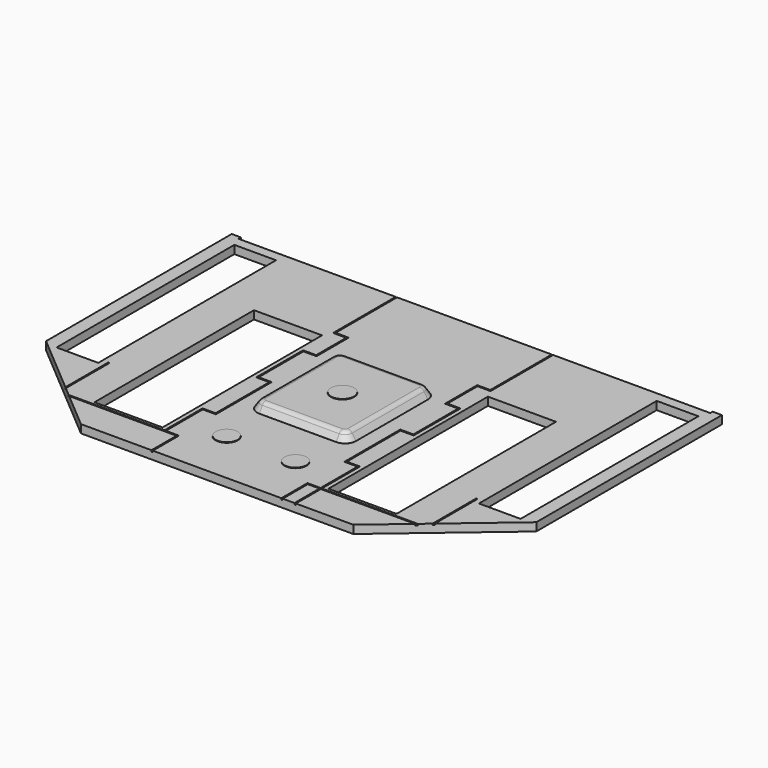
from build123d import *

# Parameters (mm, degrees)
F1_DEPTH  = 3
F3_DEPTH  = 0.5
F5_DEPTH  = 3.01
F6_SIZE2  = 3
F6_SIZE   = 2
F7_R      = 2
F8_R      = 4.25
F9_DEPTH  = 0.2
F10_R     = 4.045
F11_DEPTH = 0.2
F12_W     = 15.3
F12_H     = 81.59
F12_W_2   = 25
F12_H_2   = 73.2
F13_DEPTH = 25


with BuildPart() as f1:
    # F0 (on Top) → F1 (new body)
    with BuildSketch(Plane.XY):
        Polygon((-86.6, 48.4397485852), (-90, 48.4397485852), (-90, -36.7602514148), (-50.005, -70.7602514148), (50.005, -70.7602514148), (90, -36.7602514148), (90, 48.4397485852), (86.6, 48.4397485852), (86.6, 47.3397485852), (-86.6, 47.3397485852), align=None)
    extrude(amount=F1_DEPTH)

    # F2 (on face) → F3 (cut)
    with BuildSketch(Plane.XY.offset(3)):
        Polygon((28.905, 18.6197485852), (28.905, 47.3397485852), (28.405, 47.3397485852), (28.405, 19.1197485852), (23.595, 19.1197485852), (23.595, 4.3397485852), (28.405, 4.3397485852), (28.405, -16.1802514148), (23.595, -16.1802514148), (23.595, -41.8302514148), (28.405, -41.8302514148), (28.405, -58.7802514148), (23.595, -58.7802514148), (23.595, -70.7602514148), (24.095, -70.7602514148), (24.095, -59.2802514148), (28.405, -59.2802514148), (28.405, -71.6557353735), (28.905, -71.7005729675), (28.905, -59.2802514148), (67.82, -59.2802514148), (67.82, -35.9962806106), (67.32, -35.9962806106), (67.32, -58.7802514148), (28.905, -58.7802514148), (28.905, -41.3302514148), (24.095, -41.3302514148), (24.095, -16.6802514148), (28.905, -16.6802514148), (28.905, 4.8397485852), (24.095, 4.8397485852), (24.095, 18.6197485852), align=None)
        Polygon((-28.405, 19.1197485852), (-28.405, 47.3397485852), (-28.905, 47.3397485852), (-28.905, 18.6197485852), (-24.095, 18.6197485852), (-24.095, 4.8397485852), (-28.905, 4.8397485852), (-28.905, -16.6802514148), (-24.095, -16.6802514148), (-24.095, -41.3302514148), (-28.905, -41.3302514148), (-28.905, -58.7802514148), (-28.905, -59.2802514148), (-28.405, -59.2802514148), (-24.095, -59.2802514148), (-24.095, -70.7602514148), (-23.595, -70.7602514148), (-23.595, -58.7802514148), (-28.405, -58.7802514148), (-28.405, -41.8302514148), (-23.595, -41.8302514148), (-23.595, -16.1802514148), (-28.405, -16.1802514148), (-28.405, 4.3397485852), (-23.595, 4.3397485852), (-23.595, 19.1197485852), align=None)
        Polygon((-28.905, -59.2802514148), (-28.905, -58.7802514148), (-67.32, -58.7802514148), (-67.32, -35.9962806106), (-67.82, -35.9962806106), (-67.82, -59.2802514148), align=None)
    extrude(amount=-F3_DEPTH, mode=Mode.SUBTRACT)

    # F4 (on face) → F5 (join)
    with BuildSketch(Plane.XY.offset(3)):
        with BuildLine():
            Line((14.115, 7.3147485852), (-14.115, 7.3147485852))
            ThreePointArc((-14.115, 7.3147485852), (-16.971711396, 6.1314599812), (-18.155, 3.2747485852))
            Line((-18.155, 3.2747485852), (-18.155, -29.6952514148))
            ThreePointArc((-18.155, -29.6952514148), (-16.971711396, -32.5519628108), (-14.115, -33.7352514148))
            Line((-14.115, -33.7352514148), (14.115, -33.7352514148))
            ThreePointArc((14.115, -33.7352514148), (16.971711396, -32.5519628108), (18.155, -29.6952514148))
            Line((18.155, -29.6952514148), (18.155, 3.2747485852))
            ThreePointArc((18.155, 3.2747485852), (16.971711396, 6.1314599812), (14.115, 7.3147485852))
        make_face()
    extrude(amount=F5_DEPTH)

    # F6
    f6_edges = [f1.edges().sort_by_distance(p)[0] for p in [
        (-18.155, -13.210251, 6.01),
    ]]
    f6_side = f1.faces().sort_by_distance((0, -13.210251, 6.01))[0]
    chamfer(f6_edges, length=F6_SIZE, length2=F6_SIZE2, reference=f6_side)

    # F7
    f7_edges = [f1.edges().sort_by_distance(p)[0] for p in [
        (15.557498, 4.717246, 6.01),
    ]]
    fillet(f7_edges, radius=F7_R)

    # F8 (on face) → F9 (join)
    with BuildSketch(Plane.XY.offset(6.01)):
        with Locations((0, -13.2102514148)):
            Circle(F8_R)
    extrude(amount=F9_DEPTH)

    # F10 (on face) → F11 (join)
    with BuildSketch(Plane.XY.offset(3)):
        with Locations((-12.63, -50.5702514148)):
            Circle(F10_R)
        with Locations((12.63, -50.5702514148)):
            Circle(F10_R)
    extrude(amount=F11_DEPTH)

    # F12 (on face) → F13 (cut)
    with BuildSketch(Plane.XY.offset(3)):
        with Locations((-77.54, 2.8447485852)):
            Rectangle(F12_W, F12_H)
        with Locations((77.54, 2.8447485852)):
            Rectangle(F12_W, F12_H)
        with Locations((-42.955, -21.1302514148)):
            Rectangle(F12_W_2, F12_H_2)
        with Locations((42.955, -21.1302514148)):
            Rectangle(F12_W_2, F12_H_2)
    extrude(amount=-F13_DEPTH, mode=Mode.SUBTRACT)


solid = f1.part
